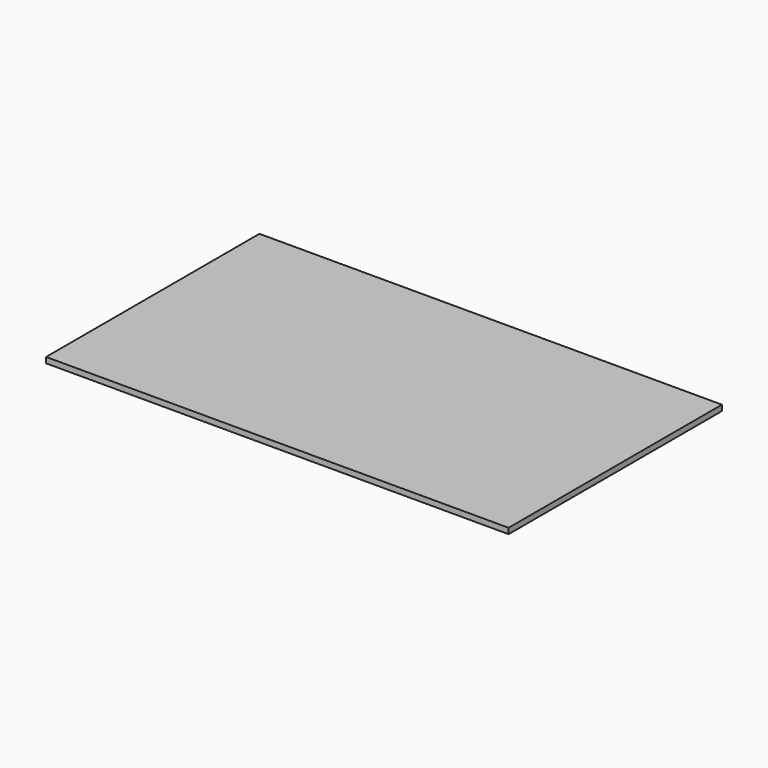
from build123d import *

# Parameters (mm, degrees)
F2_DEPTH = 2.5
F3_DEPTH = 2.5
F4_DEPTH = 2.5
F4_TAPER = 45
F5_W     = 7.8047607094
F5_H     = 40.5
F5_H_2   = 7.430572629
F5_W_2   = 7.7738855034
F6_DEPTH = 2.5
F7_R     = 5
F8_W     = 204.3793946505
F8_H     = 117.8380995989
F9_DEPTH = 2.5


with BuildPart() as f2:
    # F1 (on Top) → F2 (new body)
    with BuildSketch(Plane.XY):
        Polygon((-12, 12.7071067812), (-12, 16), (-12, 20.5), (-8, 20.5), (-5, 20.5), (5, 20.5), (8, 20.5), (12, 20.5), (12, -20), (19.7742227465, -20), (19.7742227465, 27.930572629), (-19.7742227465, 27.930572629), (-19.7742227465, -20), (-12, -20), align=None)
        Polygon((5, 20.5), (-5, 20.5), (-5, -20), (5, -20), (5, 12.7071067812), (5, 16), align=None)
    extrude(amount=F2_DEPTH)

    # F1 (on Top) → F3 (join)
    with BuildSketch(Plane.XY):
        Polygon((12, 20.5), (8, 20.5), (8, 16), (8.2928932188, 16), (8, 15.7071067812), (8, -20), (12, -20), align=None)
        Polygon((-12, 12.7071067812), (-12, 16), (-12, 20.5), (-8, 20.5), (-5, 20.5), (5, 20.5), (8, 20.5), (12, 20.5), (12, -20), (19.7742227465, -20), (19.7742227465, 27.930572629), (-19.7742227465, 27.930572629), (-19.7742227465, -20), (-12, -20), align=None)
        Polygon((8.2928932188, 16), (8, 16), (8, 15.7071067812), align=None)
        Polygon((-12, 20.5), (-12, 16), (-8.7071067812, 16), (-12, 12.7071067812), (-12, -20), (-8, -20), (-8, 20.5), align=None)
        Polygon((-8.7071067812, 16), (-12, 16), (-12, 12.7071067812), align=None)
    extrude(amount=-F3_DEPTH)

    # F1 (on Top) → F4 (join)
    with BuildSketch(Plane.XY):
        Polygon((5, 20.5), (-5, 20.5), (-5, -20), (5, -20), (5, 12.7071067812), (5, 16), align=None)
    extrude(amount=-F4_DEPTH, taper=F4_TAPER)

    # F5 (on face) → F6 (join)
    with BuildSketch(Plane(origin=(0, 0, -2.5), x_dir=(1, 0, 0), z_dir=(0, 0, -1))):
        with Locations((-15.8718423918, -0.25)):
            Rectangle(F5_W, F5_H)
        with Locations((-15.8718423918, -24.2152863145)):
            Rectangle(F5_W, F5_H_2)
        with Locations((15.8872799948, -0.25)):
            Rectangle(F5_W_2, F5_H)
        with Locations((15.8872799948, -24.2152863145)):
            Rectangle(F5_W_2, F5_H_2)
        Polygon((-8, -20.5), (-11.9694620371, -20.5), (-11.9694620371, -27.930572629), (12.0003372431, -27.930572629), (12.0003372431, -20.5), (8, -20.5), align=None)
    extrude(amount=F6_DEPTH)

    # F7
    f7_edges = [f2.edges().sort_by_distance(p)[0] for p in [
        (-19.774223, 27.930573, -1.25),
        (19.774223, 27.930573, -1.25),
    ]]
    fillet(f7_edges, radius=F7_R)

    # F8 (on face) → F9 (join)
    with BuildSketch(Plane.XY.offset(2.5)):
        with Locations((52.1517619491, 4.441536963)):
            Rectangle(F8_W, F8_H)
        with BuildLine():
            Line((19.7742227465, 22.930572629), (19.7742227465, -20))
            Line((19.7742227465, -20), (12, -20))
            Line((12, -20), (12, 20.5))
            Line((12, 20.5), (5, 20.5))
            Line((5, 20.5), (5, -20))
            Line((5, -20), (-5, -20))
            Line((-5, -20), (-5, 20.5))
            Line((-5, 20.5), (-12, 20.5))
            Line((-12, 20.5), (-12, -20))
            Line((-12, -20), (-19.7742227465, -20))
            Line((-19.7742227465, -20), (-19.7742227465, 22.930572629))
            ThreePointArc((-19.7742227465, 22.930572629), (-18.3097566524, 26.4661065349), (-14.7742227465, 27.930572629))
            Line((-14.7742227465, 27.930572629), (14.7742227465, 27.930572629))
            ThreePointArc((14.7742227465, 27.930572629), (18.3097566524, 26.4661065349), (19.7742227465, 22.930572629))
        make_face(mode=Mode.SUBTRACT)
        with BuildLine():
            Line((12, -20), (19.7742227465, -20))
            Line((19.7742227465, -20), (19.7742227465, 22.930572629))
            ThreePointArc((19.7742227465, 22.930572629), (18.3097566524, 26.4661065349), (14.7742227465, 27.930572629))
            Line((14.7742227465, 27.930572629), (-14.7742227465, 27.930572629))
            ThreePointArc((-14.7742227465, 27.930572629), (-18.3097566524, 26.4661065349), (-19.7742227465, 22.930572629))
            Line((-19.7742227465, 22.930572629), (-19.7742227465, -20))
            Line((-19.7742227465, -20), (-12, -20))
            Line((-12, -20), (-12, 20.5))
            Line((-12, 20.5), (-5, 20.5))
            Line((-5, 20.5), (-5, -20))
            Line((-5, -20), (5, -20))
            Line((5, -20), (5, 20.5))
            Line((5, 20.5), (12, 20.5))
            Line((12, 20.5), (12, -20))
        make_face()
    extrude(amount=F9_DEPTH)


solid = f2.part
